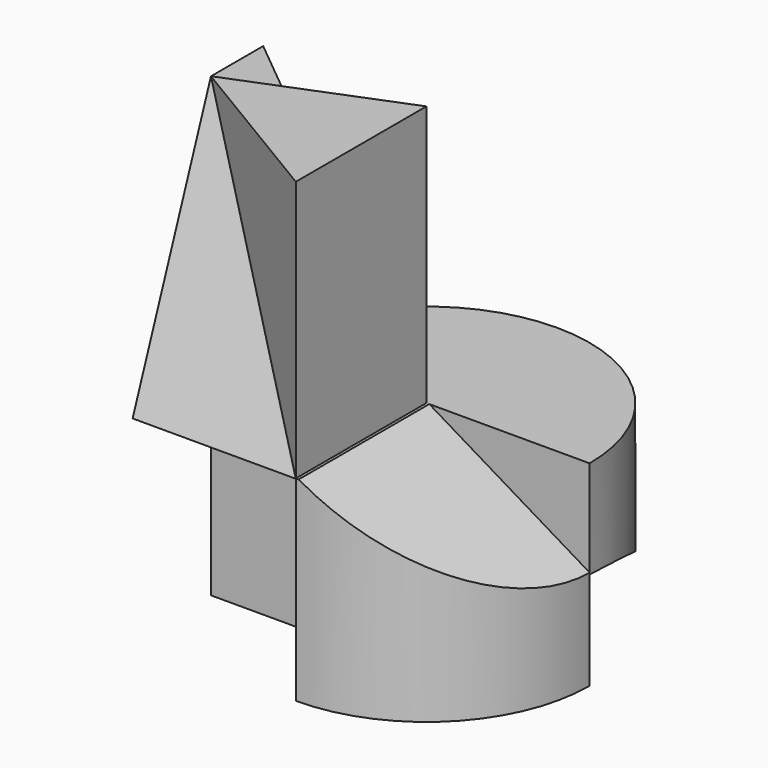
from build123d import *

# Parameters (mm, degrees)
F0_R      = 50
F1_DEPTH  = 60
F3_DEPTH  = 60.001
F4_W      = 50
F4_H      = 50
F5_DEPTH  = 140
F6_W      = 30
F6_H      = 59.9
F7_DEPTH  = 49.99
F13_DEPTH = 50.0010001
F15_DEPTH = 50.0010001


with BuildPart() as f1:
    # F0 (on Top) → F1 (new body)
    with BuildSketch(Plane.XY):
        Circle(F0_R)
    extrude(amount=F1_DEPTH)

    # F2 (on face) → F3 (cut, through all)
    with BuildSketch(Plane.XY.offset(60)):
        with BuildLine():
            Line((0, -50), (0, 0))
            Line((0, 0), (-50, 0))
            ThreePointArc((-50, 0), (-35.3553390593, -35.3553390593), (0, -50))
        make_face()
    extrude(amount=-F3_DEPTH, mode=Mode.SUBTRACT)

    # F4 (on Top) → F5 (join)
    with BuildSketch(Plane.XY):
        with Locations((-25, -25)):
            Rectangle(F4_W, F4_H)
    extrude(amount=F5_DEPTH)

    # F6 (on face) → F7 (cut)
    with BuildSketch(Plane(origin=(-50, 0, 0), x_dir=(0, -1, 0), z_dir=(-1, 0, 0))):
        with Locations((35, 29.95)):
            Rectangle(F6_W, F6_H)
    extrude(amount=-F7_DEPTH, mode=Mode.SUBTRACT)

    # F5_face2 (on face) → F9 section 0
    with BuildSketch(Plane(origin=(-24.9962622307, -50, 99.9395321524), x_dir=(1, 0, 0), z_dir=(0, -1, 0)), mode=Mode.PRIVATE) as f9_s0:
        Polygon((-25.0037377693, -40.0395321524), (24.9862622307, -40.0395321524), (24.9862622307, -99.9395321524), (24.9962622307, -99.9395321524), (24.9962622307, -39.9395321524), (24.9962622307, 40.0604678476), (-25.0037377693, 40.0604678476), align=None)
    loft([f9_s0.sketch, Vertex(-50, -20, 140)], mode=Mode.SUBTRACT)

    # F10 (on face) → F11 section 0
    with BuildSketch(Plane.XY.offset(140), mode=Mode.PRIVATE) as f11_s0:
        Polygon((-50, 0), (-50, -20), (0, 0), align=None)
    loft([f11_s0.sketch, Vertex(0, 0, 60)], mode=Mode.SUBTRACT)

    # F12 (on Front) → F13 (cut, through all)
    with BuildSketch(Plane.XZ):
        Polygon((50, 60.5232338582), (0, 60.5232338582), (50, 30.5232338582), align=None)
    extrude(amount=F13_DEPTH, mode=Mode.SUBTRACT)

    # F14 (on Right) → F15 (cut, through all)
    with BuildSketch(Plane.YZ):
        with BuildLine():
            Line((0, 29.99), (0, 0))
            Line((0, 0), (50, 0))
            ThreePointArc((50, 0), (28.8876713773, 21.4766128331), (0, 29.99))
        make_face()
    extrude(amount=F15_DEPTH, mode=Mode.SUBTRACT)


solid = f1.part
